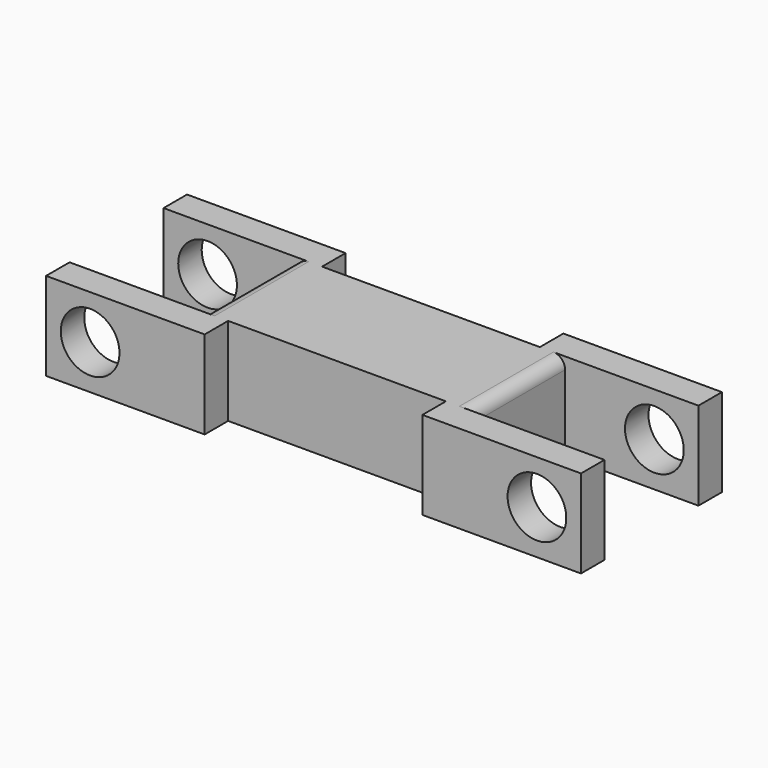
from build123d import *

# Parameters (mm, degrees)
F1_DEPTH = 19.05
F3_D     = 12.7
F5_D     = 12.7
F6_R     = 2.54


with BuildPart() as f1:
    # F0 (on Top) → F1 (new body)
    with BuildSketch(Plane.XY):
        Polygon((45.404016, 2.31187), (-1.694917, 2.31187), (-1.694917, 8.66187), (-35.984917, 8.66187), (-35.984917, 2.31187), (-7.148128, 2.31187), (-7.148128, -23.08813), (-35.984917, -23.08813), (-35.984917, -29.43813), (-1.694917, -29.43813), (-1.694917, -23.08813), (45.404016, -23.08813), (45.404016, -29.43813), (79.694016, -29.43813), (79.694016, -23.08813), (50.865016, -23.08813), (50.865016, 2.31187), (79.694016, 2.31187), (79.694016, 8.66187), (45.404016, 8.66187), align=None)
    extrude(amount=F1_DEPTH)

    # F3 (through all)
    with Locations(Plane.XZ.offset(29.43813)):
        with Locations((-26.459917, 9.525)):
            Hole(F3_D / 2)

    # F5 (through all)
    with Locations(Plane.XZ.offset(29.43813)):
        with Locations((70.169016, 9.525)):
            Hole(F5_D / 2)

    # F6
    f6_edges = [f1.edges().sort_by_distance(p)[0] for p in [
        (50.865016, -10.38813, 19.05),
        (50.865016, -10.38813, 0),
        (-7.148128, -10.38813, 19.05),
        (-7.148128, -10.38813, 0),
    ]]
    fillet(f6_edges, radius=F6_R)


solid = f1.part
